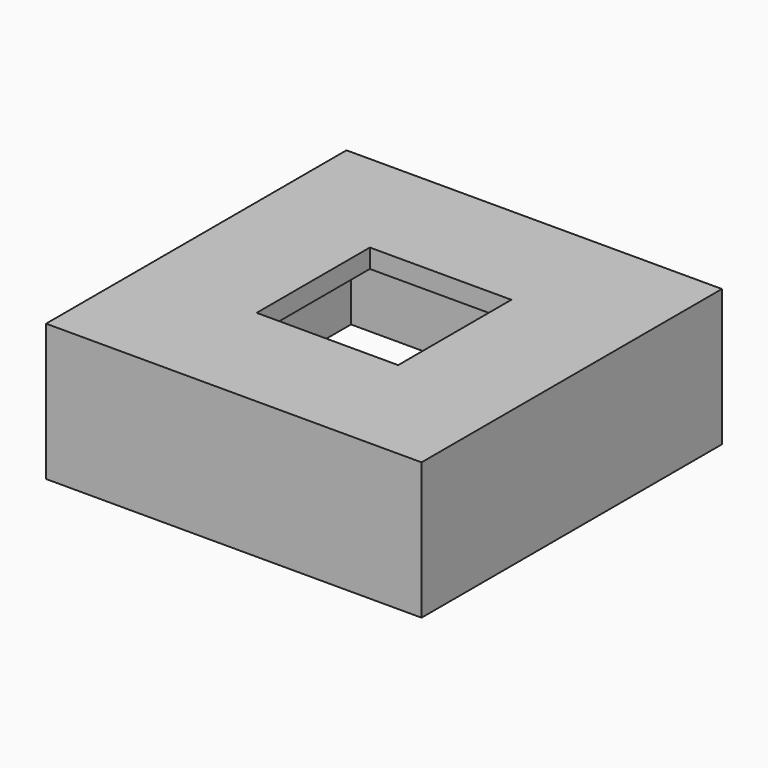
from build123d import *

# Parameters (mm, degrees)
BOX004_W     = 3
BOX004_H     = 3
BOX004_DEPTH = 4
BOX003_W     = 7
BOX003_H     = 7
BOX003_DEPTH = 2.5
BOX002_W     = 7.96
BOX002_H     = 7.96
BOX002_DEPTH = 2.9


with BuildPart() as cube004:
    # Box004 → Box004 (new body)
    with BuildSketch(Plane(origin=(-1.5, -1.5, 0), x_dir=(1, 0, 0), z_dir=(0, 0, 1))):
        with Locations((1.5, 1.5)):
            Rectangle(BOX004_W, BOX004_H)
    extrude(amount=BOX004_DEPTH)


with BuildPart() as fusion:
    # Box003 → Box003 (new body)
    with BuildSketch(Plane(origin=(-3.5, -3.5, 0), x_dir=(1, 0, 0), z_dir=(0, 0, 1))):
        with Locations((3.5, 3.5)):
            Rectangle(BOX003_W, BOX003_H)
    extrude(amount=BOX003_DEPTH)

    # Fusion: union Cube004
    add(cube004.part)


with BuildPart() as cut001:
    # Box002 → Box002 (new body)
    with BuildSketch(Plane(origin=(-3.98, -3.98, 0), x_dir=(1, 0, 0), z_dir=(0, 0, 1))):
        with Locations((3.98, 3.98)):
            Rectangle(BOX002_W, BOX002_H)
    extrude(amount=BOX002_DEPTH)

    # Cut001: cut Fusion
    add(fusion.part, mode=Mode.SUBTRACT)


solid = cut001.part
